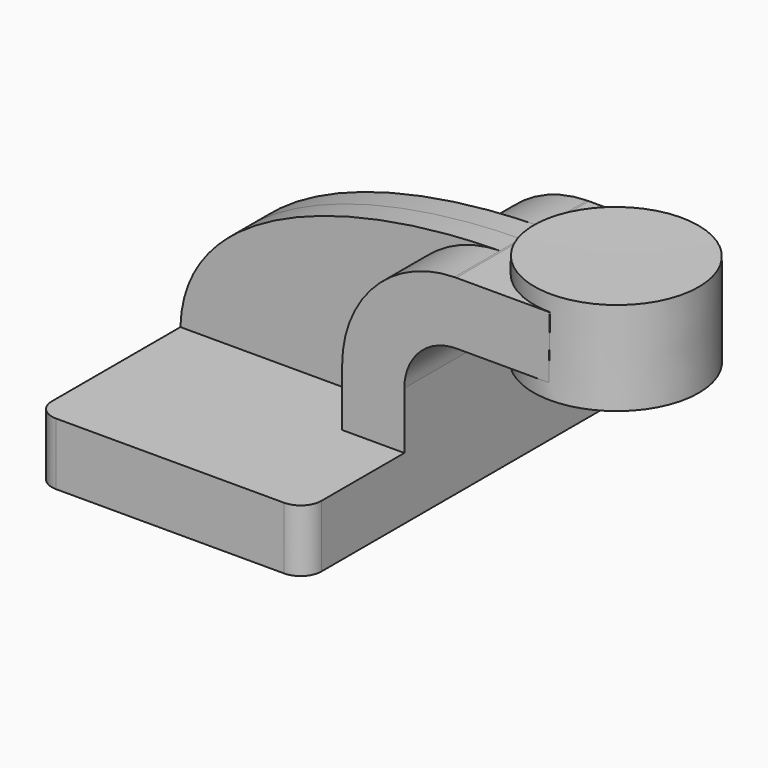
from build123d import *

# Parameters (mm, degrees)
F1_DEPTH = 63.5
F2_DEPTH = 25.4
F3_DEPTH = 7.9375
F5_R     = 6.35


with BuildPart() as f1:
    # F0 (on Front) → F1 (new body, symmetric)
    with BuildSketch(Plane.XZ):
        Polygon((-41.275, -9.525), (41.275, -9.525), (41.275, 9.525), (22.225, 9.525), (-41.275, 9.525), align=None)
    extrude(amount=F1_DEPTH, both=True)

    # F0 (on Front) → F2 (join, symmetric)
    with BuildSketch(Plane.XZ):
        with BuildLine():
            Line((22.225, 9.525), (41.275, 9.525))
            Line((41.275, 9.525), (41.275, 27.0002))
            ThreePointArc((41.275, 27.0002), (45.9246798487, 38.2255201513), (57.15, 42.8752))
            Line((57.15, 42.8752), (60.325, 42.8752))
            Line((60.325, 42.8752), (60.325, 61.9252))
            Line((60.325, 61.9252), (57.15, 61.9252))
            add(Edge.make_bspline(
                [(56.6065115884, 61.920970973), (56.7876987986, 61.922611789), (56.9688625178, 61.9240214089), (57.15, 61.9252)],
                knots=[111.0825046513, 111.0825046513, 111.0825046513, 111.0825046513, 111.5045361635, 111.5045361635, 111.5045361635, 111.5045361635], degree=3))
            ThreePointArc((56.6065115884, 61.920970973), (32.262885284, 51.5029987404), (22.225, 27.0002))
            Line((22.225, 27.0002), (22.225, 9.525))
        make_face()
        Polygon((60.325, 61.9252), (60.325, 42.8752), (85.5075716972, 42.8752), (85.8066127165, 61.9252), align=None)
    extrude(amount=F2_DEPTH, both=True)

    # F0 (on Front) → F3 (join, symmetric)
    with BuildSketch(Plane.XZ):
        with BuildLine():
            add(Edge.make_bspline(
                [(-41.275, 9.525), (-40.4011428689, 45.0401850248), (8.9164018698, 61.4890933851), (56.6065115884, 61.920970973)],
                knots=[0, 0, 0, 0, 111.0825046513, 111.0825046513, 111.0825046513, 111.0825046513], degree=3))
            Line((-41.275, 9.525), (22.225, 9.525))
            Line((22.225, 9.525), (22.225, 27.0002))
            ThreePointArc((22.225, 27.0002), (32.262885284, 51.5029987404), (56.6065115884, 61.920970973))
        make_face()
    extrude(amount=F3_DEPTH, both=True)

    # F0 (on Front) → F4 (revolve)
    with BuildSketch(Plane.XZ):
        Polygon((85.8552140861, 61.9252), (85.725, 38.1), (111.125, 38.1), (111.125, 66.675), (85.8811736107, 66.675), align=None)
    revolve(axis=Axis((85.8030868053, 0, 52.3875), (0.0054653116, 0, 0.9999850651)))

    # F5
    f5_edges = [f1.edges().sort_by_distance(p)[0] for p in [
        (41.275, -63.5, 0),
        (-41.275, -63.5, 0),
        (-41.275, 63.5, 0),
        (41.275, 63.5, 0),
    ]]
    fillet(f5_edges, radius=F5_R)


solid = f1.part
